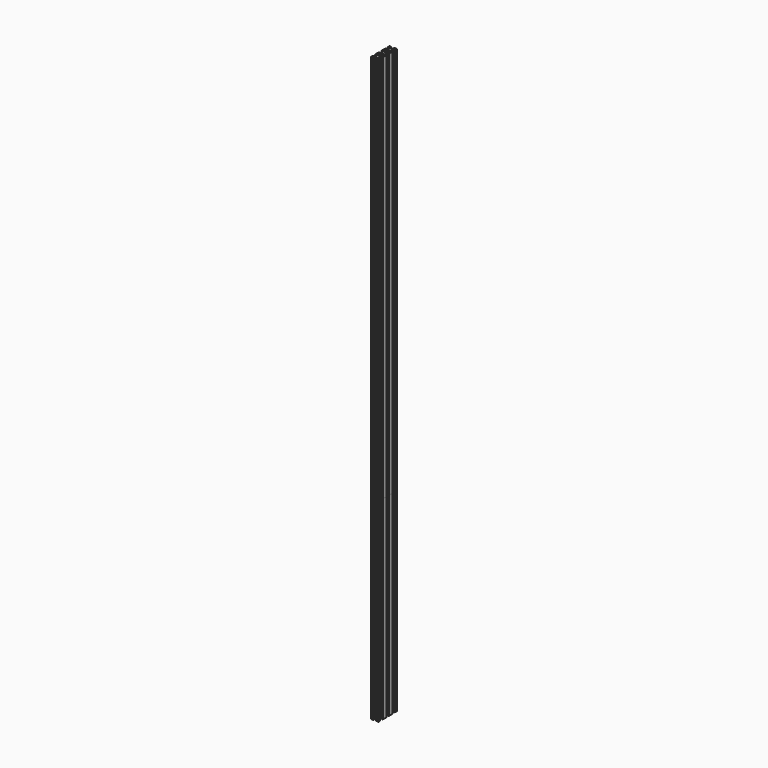
from build123d import *

# Parameters (mm, degrees)
F1_DEPTH = 119.7
F3_DEPTH = 1500
F4_DEPTH = 203.8
F5_DEPTH = 287.6
F6_DEPTH = 386.6
F7_DEPTH = 517.5
F8_DEPTH = 500


with BuildPart() as f1:
    # F0 (on Top) → F1 (new body)
    with BuildSketch(Plane.XY):
        Polygon((10, 10), (8.821031, 10), (5.50152, 10), (4.413291, 10), (2.407212, 7.993921), (5.50152, 7.993921), (5.50152, 6.680489), (2.559633, 3.738602), (-2.912382, 3.738602), (-5.50152, 6.327739), (-5.50152, 7.993921), (-2.759962, 7.993921), (-4.766041, 10), (-5.50152, 10), (-9.173795, 10), (-10, 10), (-10, 8.456274), (-10, 5.50152), (-10, 4.316109), (-8.115502, 2.431611), (-8.115502, 5.50152), (-7.045231, 5.50152), (-3.860182, 2.316472), (-3.860182, -2.681213), (-6.680489, -5.50152), (-8.115502, -5.50152), (-8.115502, -2.796353), (-10, -4.680851), (-10, -5.50152), (-10, -8.821016), (-10, -10), (-8.809054, -10), (-5.50152, -10), (-4.492484, -10), (-2.851147, -8.358663), (-5.50152, -8.358663), (-5.50152, -6.692481), (-2.821197, -4.012158), (2.468447, -4.012158), (5.50152, -7.045231), (5.50152, -8.358663), (2.498397, -8.358663), (4.139735, -10), (5.50152, -10), (8.456289, -10), (10, -10), (10, -9.173781), (10, -5.50152), (10, -4.591966), (8.237082, -2.829048), (8.237082, -5.50152), (6.327739, -5.50152), (3.890578, -3.064358), (3.890578, 2.699617), (6.692481, 5.50152), (8.237082, 5.50152), (8.237082, 2.464306), (10, 4.227224), (10, 5.50152), (10, 8.809039), align=None)
    extrude(amount=F1_DEPTH)


with BuildPart() as f3:
    # F2 (on Top) → F3 (new body)
    with BuildSketch(Plane.XY):
        Polygon((10.016915, 30), (8.835952, 30), (5.510825, 30), (4.420756, 30), (2.411283, 27.990528), (5.510825, 27.990528), (5.510825, 26.674874), (2.563962, 23.72801), (-2.917309, 23.72801), (-5.510826, 26.321527), (-5.510826, 27.990528), (-2.764631, 27.990528), (-4.774103, 30), (-5.510826, 30), (-9.189314, 30), (-10.016916, 30), (-10.016916, 28.453663), (-10.016916, 25.49391), (-10.016916, 24.306495), (-8.12923, 22.418809), (-8.12923, 25.49391), (-7.057148, 25.49391), (-3.866713, 22.303474), (-3.866713, 17.297336), (-6.69179, 14.472259), (-8.12923, 14.472259), (-8.12923, 17.182002), (-10.016916, 15.294315), (-10.016916, 14.472259), (-10.016916, 11.147147), (-10.016916, 9.966169), (-10.016916, 8.419832), (-10.016916, 5.460079), (-10.016916, 4.272664), (-8.12923, 2.384977), (-8.12923, 5.460079), (-7.057148, 5.460079), (-3.866713, 2.269643), (-3.866713, -2.736495), (-6.69179, -5.561573), (-8.12923, -5.561573), (-8.12923, -2.851829), (-10.016916, -4.739516), (-10.016916, -5.561573), (-10.016916, -8.886684), (-10.016916, -9.966169), (-10.016916, -10.067662), (-10.016916, -11.512506), (-10.016916, -14.472259), (-10.016916, -15.659674), (-8.12923, -17.54736), (-8.12923, -14.472259), (-7.057148, -14.472259), (-3.866713, -17.662694), (-3.866713, -22.668833), (-6.69179, -25.49391), (-8.12923, -25.49391), (-8.12923, -22.784167), (-10.016916, -24.671853), (-10.016916, -25.49391), (-10.016916, -28.819022), (-10.016916, -30), (-8.823955, -30), (-5.510826, -30), (-4.500084, -30), (-2.85597, -28.355886), (-5.510826, -28.355886), (-5.510826, -26.686886), (-2.82597, -24.002029), (2.472622, -24.002029), (5.510825, -27.040232), (5.510825, -28.355886), (2.502623, -28.355886), (4.146737, -30), (5.510825, -30), (8.470593, -30), (10.016915, -30), (10.016915, -29.172383), (10.016915, -25.49391), (10.016915, -24.582818), (8.251015, -22.816918), (8.251015, -25.49391), (6.338442, -25.49391), (3.897158, -23.052626), (3.897158, -17.278901), (6.703801, -14.472259), (8.251015, -14.472259), (8.251015, -17.514609), (10.016915, -15.748709), (10.016915, -14.472259), (10.016915, -11.159144), (10.016915, -10.067662), (10.016915, -9.966169), (10.016915, -9.240045), (10.016915, -5.561573), (10.016915, -4.65048), (8.251015, -2.88458), (8.251015, -5.561573), (6.338442, -5.561573), (3.897158, -3.120288), (3.897158, 2.653436), (6.703801, 5.460079), (8.251015, 5.460079), (8.251015, 2.417728), (10.016915, 4.183628), (10.016915, 5.460079), (10.016915, 8.773193), (10.016915, 9.966169), (10.016915, 10.793786), (10.016915, 14.472259), (10.016915, 15.383351), (8.251015, 17.149251), (8.251015, 14.472259), (6.338442, 14.472259), (3.897158, 16.913543), (3.897158, 22.687267), (6.703801, 25.49391), (8.251015, 25.49391), (8.251015, 22.451559), (10.016915, 24.217459), (10.016915, 25.49391), (10.016915, 28.807024), align=None)
        Polygon((2.472622, -4.069692), (5.510825, -7.107895), (5.510825, -7.307165), (8.190122, -7.307165), (8.190122, -12.828145), (5.510825, -12.828145), (5.510825, -13.291295), (2.563962, -16.238159), (-2.917309, -16.238159), (-5.510826, -13.644642), (-5.510826, -12.828145), (-8.12923, -12.828145), (-8.12923, -7.307165), (-5.510826, -7.307165), (-5.510826, -6.754548), (-2.82597, -4.069692), align=None, mode=Mode.SUBTRACT)
        Polygon((2.472622, 15.96414), (5.510825, 12.925936), (5.510825, 12.706359), (8.190122, 12.706359), (8.190122, 7.185394), (5.510825, 7.185394), (5.510825, 6.641043), (2.563962, 3.694179), (-2.917309, 3.694179), (-5.510826, 6.287696), (-5.510826, 7.185394), (-8.12923, 7.185394), (-8.12923, 12.706359), (-5.510826, 12.706359), (-5.510826, 13.279283), (-2.82597, 15.96414), align=None, mode=Mode.SUBTRACT)
    extrude(amount=F3_DEPTH)


with BuildPart() as f4:
    # F0 (on Top) → F4 (new body)
    with BuildSketch(Plane.XY):
        Polygon((10, 10), (8.821031, 10), (5.50152, 10), (4.413291, 10), (2.407212, 7.993921), (5.50152, 7.993921), (5.50152, 6.680489), (2.559633, 3.738602), (-2.912382, 3.738602), (-5.50152, 6.327739), (-5.50152, 7.993921), (-2.759962, 7.993921), (-4.766041, 10), (-5.50152, 10), (-9.173795, 10), (-10, 10), (-10, 8.456274), (-10, 5.50152), (-10, 4.316109), (-8.115502, 2.431611), (-8.115502, 5.50152), (-7.045231, 5.50152), (-3.860182, 2.316472), (-3.860182, -2.681213), (-6.680489, -5.50152), (-8.115502, -5.50152), (-8.115502, -2.796353), (-10, -4.680851), (-10, -5.50152), (-10, -8.821016), (-10, -10), (-8.809054, -10), (-5.50152, -10), (-4.492484, -10), (-2.851147, -8.358663), (-5.50152, -8.358663), (-5.50152, -6.692481), (-2.821197, -4.012158), (2.468447, -4.012158), (5.50152, -7.045231), (5.50152, -8.358663), (2.498397, -8.358663), (4.139735, -10), (5.50152, -10), (8.456289, -10), (10, -10), (10, -9.173781), (10, -5.50152), (10, -4.591966), (8.237082, -2.829048), (8.237082, -5.50152), (6.327739, -5.50152), (3.890578, -3.064358), (3.890578, 2.699617), (6.692481, 5.50152), (8.237082, 5.50152), (8.237082, 2.464306), (10, 4.227224), (10, 5.50152), (10, 8.809039), align=None)
    extrude(amount=F4_DEPTH)


with BuildPart() as f5:
    # F0 (on Top) → F5 (new body)
    with BuildSketch(Plane.XY):
        Polygon((10, 10), (8.821031, 10), (5.50152, 10), (4.413291, 10), (2.407212, 7.993921), (5.50152, 7.993921), (5.50152, 6.680489), (2.559633, 3.738602), (-2.912382, 3.738602), (-5.50152, 6.327739), (-5.50152, 7.993921), (-2.759962, 7.993921), (-4.766041, 10), (-5.50152, 10), (-9.173795, 10), (-10, 10), (-10, 8.456274), (-10, 5.50152), (-10, 4.316109), (-8.115502, 2.431611), (-8.115502, 5.50152), (-7.045231, 5.50152), (-3.860182, 2.316472), (-3.860182, -2.681213), (-6.680489, -5.50152), (-8.115502, -5.50152), (-8.115502, -2.796353), (-10, -4.680851), (-10, -5.50152), (-10, -8.821016), (-10, -10), (-8.809054, -10), (-5.50152, -10), (-4.492484, -10), (-2.851147, -8.358663), (-5.50152, -8.358663), (-5.50152, -6.692481), (-2.821197, -4.012158), (2.468447, -4.012158), (5.50152, -7.045231), (5.50152, -8.358663), (2.498397, -8.358663), (4.139735, -10), (5.50152, -10), (8.456289, -10), (10, -10), (10, -9.173781), (10, -5.50152), (10, -4.591966), (8.237082, -2.829048), (8.237082, -5.50152), (6.327739, -5.50152), (3.890578, -3.064358), (3.890578, 2.699617), (6.692481, 5.50152), (8.237082, 5.50152), (8.237082, 2.464306), (10, 4.227224), (10, 5.50152), (10, 8.809039), align=None)
    extrude(amount=F5_DEPTH)


with BuildPart() as f6:
    # F0 (on Top) → F6 (new body)
    with BuildSketch(Plane.XY):
        Polygon((10, 10), (8.821031, 10), (5.50152, 10), (4.413291, 10), (2.407212, 7.993921), (5.50152, 7.993921), (5.50152, 6.680489), (2.559633, 3.738602), (-2.912382, 3.738602), (-5.50152, 6.327739), (-5.50152, 7.993921), (-2.759962, 7.993921), (-4.766041, 10), (-5.50152, 10), (-9.173795, 10), (-10, 10), (-10, 8.456274), (-10, 5.50152), (-10, 4.316109), (-8.115502, 2.431611), (-8.115502, 5.50152), (-7.045231, 5.50152), (-3.860182, 2.316472), (-3.860182, -2.681213), (-6.680489, -5.50152), (-8.115502, -5.50152), (-8.115502, -2.796353), (-10, -4.680851), (-10, -5.50152), (-10, -8.821016), (-10, -10), (-8.809054, -10), (-5.50152, -10), (-4.492484, -10), (-2.851147, -8.358663), (-5.50152, -8.358663), (-5.50152, -6.692481), (-2.821197, -4.012158), (2.468447, -4.012158), (5.50152, -7.045231), (5.50152, -8.358663), (2.498397, -8.358663), (4.139735, -10), (5.50152, -10), (8.456289, -10), (10, -10), (10, -9.173781), (10, -5.50152), (10, -4.591966), (8.237082, -2.829048), (8.237082, -5.50152), (6.327739, -5.50152), (3.890578, -3.064358), (3.890578, 2.699617), (6.692481, 5.50152), (8.237082, 5.50152), (8.237082, 2.464306), (10, 4.227224), (10, 5.50152), (10, 8.809039), align=None)
    extrude(amount=F6_DEPTH)


with BuildPart() as f7:
    # F0 (on Top) → F7 (new body)
    with BuildSketch(Plane.XY):
        Polygon((10, 10), (8.821031, 10), (5.50152, 10), (4.413291, 10), (2.407212, 7.993921), (5.50152, 7.993921), (5.50152, 6.680489), (2.559633, 3.738602), (-2.912382, 3.738602), (-5.50152, 6.327739), (-5.50152, 7.993921), (-2.759962, 7.993921), (-4.766041, 10), (-5.50152, 10), (-9.173795, 10), (-10, 10), (-10, 8.456274), (-10, 5.50152), (-10, 4.316109), (-8.115502, 2.431611), (-8.115502, 5.50152), (-7.045231, 5.50152), (-3.860182, 2.316472), (-3.860182, -2.681213), (-6.680489, -5.50152), (-8.115502, -5.50152), (-8.115502, -2.796353), (-10, -4.680851), (-10, -5.50152), (-10, -8.821016), (-10, -10), (-8.809054, -10), (-5.50152, -10), (-4.492484, -10), (-2.851147, -8.358663), (-5.50152, -8.358663), (-5.50152, -6.692481), (-2.821197, -4.012158), (2.468447, -4.012158), (5.50152, -7.045231), (5.50152, -8.358663), (2.498397, -8.358663), (4.139735, -10), (5.50152, -10), (8.456289, -10), (10, -10), (10, -9.173781), (10, -5.50152), (10, -4.591966), (8.237082, -2.829048), (8.237082, -5.50152), (6.327739, -5.50152), (3.890578, -3.064358), (3.890578, 2.699617), (6.692481, 5.50152), (8.237082, 5.50152), (8.237082, 2.464306), (10, 4.227224), (10, 5.50152), (10, 8.809039), align=None)
    extrude(amount=F7_DEPTH)


with BuildPart() as f8:
    # F2 (on Top) → F8 (new body)
    with BuildSketch(Plane.XY):
        Polygon((10.016915, 30), (8.835952, 30), (5.510825, 30), (4.420756, 30), (2.411283, 27.990528), (5.510825, 27.990528), (5.510825, 26.674874), (2.563962, 23.72801), (-2.917309, 23.72801), (-5.510826, 26.321527), (-5.510826, 27.990528), (-2.764631, 27.990528), (-4.774103, 30), (-5.510826, 30), (-9.189314, 30), (-10.016916, 30), (-10.016916, 28.453663), (-10.016916, 25.49391), (-10.016916, 24.306495), (-8.12923, 22.418809), (-8.12923, 25.49391), (-7.057148, 25.49391), (-3.866713, 22.303474), (-3.866713, 17.297336), (-6.69179, 14.472259), (-8.12923, 14.472259), (-8.12923, 17.182002), (-10.016916, 15.294315), (-10.016916, 14.472259), (-10.016916, 11.147147), (-10.016916, 9.966169), (-10.016916, 8.419832), (-10.016916, 5.460079), (-10.016916, 4.272664), (-8.12923, 2.384977), (-8.12923, 5.460079), (-7.057148, 5.460079), (-3.866713, 2.269643), (-3.866713, -2.736495), (-6.69179, -5.561573), (-8.12923, -5.561573), (-8.12923, -2.851829), (-10.016916, -4.739516), (-10.016916, -5.561573), (-10.016916, -8.886684), (-10.016916, -9.966169), (-10.016916, -10.067662), (-10.016916, -11.512506), (-10.016916, -14.472259), (-10.016916, -15.659674), (-8.12923, -17.54736), (-8.12923, -14.472259), (-7.057148, -14.472259), (-3.866713, -17.662694), (-3.866713, -22.668833), (-6.69179, -25.49391), (-8.12923, -25.49391), (-8.12923, -22.784167), (-10.016916, -24.671853), (-10.016916, -25.49391), (-10.016916, -28.819022), (-10.016916, -30), (-8.823955, -30), (-5.510826, -30), (-4.500084, -30), (-2.85597, -28.355886), (-5.510826, -28.355886), (-5.510826, -26.686886), (-2.82597, -24.002029), (2.472622, -24.002029), (5.510825, -27.040232), (5.510825, -28.355886), (2.502623, -28.355886), (4.146737, -30), (5.510825, -30), (8.470593, -30), (10.016915, -30), (10.016915, -29.172383), (10.016915, -25.49391), (10.016915, -24.582818), (8.251015, -22.816918), (8.251015, -25.49391), (6.338442, -25.49391), (3.897158, -23.052626), (3.897158, -17.278901), (6.703801, -14.472259), (8.251015, -14.472259), (8.251015, -17.514609), (10.016915, -15.748709), (10.016915, -14.472259), (10.016915, -11.159144), (10.016915, -10.067662), (10.016915, -9.966169), (10.016915, -9.240045), (10.016915, -5.561573), (10.016915, -4.65048), (8.251015, -2.88458), (8.251015, -5.561573), (6.338442, -5.561573), (3.897158, -3.120288), (3.897158, 2.653436), (6.703801, 5.460079), (8.251015, 5.460079), (8.251015, 2.417728), (10.016915, 4.183628), (10.016915, 5.460079), (10.016915, 8.773193), (10.016915, 9.966169), (10.016915, 10.793786), (10.016915, 14.472259), (10.016915, 15.383351), (8.251015, 17.149251), (8.251015, 14.472259), (6.338442, 14.472259), (3.897158, 16.913543), (3.897158, 22.687267), (6.703801, 25.49391), (8.251015, 25.49391), (8.251015, 22.451559), (10.016915, 24.217459), (10.016915, 25.49391), (10.016915, 28.807024), align=None)
        Polygon((2.472622, -4.069692), (5.510825, -7.107895), (5.510825, -7.307165), (8.190122, -7.307165), (8.190122, -12.828145), (5.510825, -12.828145), (5.510825, -13.291295), (2.563962, -16.238159), (-2.917309, -16.238159), (-5.510826, -13.644642), (-5.510826, -12.828145), (-8.12923, -12.828145), (-8.12923, -7.307165), (-5.510826, -7.307165), (-5.510826, -6.754548), (-2.82597, -4.069692), align=None, mode=Mode.SUBTRACT)
        Polygon((2.472622, 15.96414), (5.510825, 12.925936), (5.510825, 12.706359), (8.190122, 12.706359), (8.190122, 7.185394), (5.510825, 7.185394), (5.510825, 6.641043), (2.563962, 3.694179), (-2.917309, 3.694179), (-5.510826, 6.287696), (-5.510826, 7.185394), (-8.12923, 7.185394), (-8.12923, 12.706359), (-5.510826, 12.706359), (-5.510826, 13.279283), (-2.82597, 15.96414), align=None, mode=Mode.SUBTRACT)
    extrude(amount=F8_DEPTH)


solid = Compound([f1.part, f3.part, f4.part, f5.part, f6.part, f7.part, f8.part])
